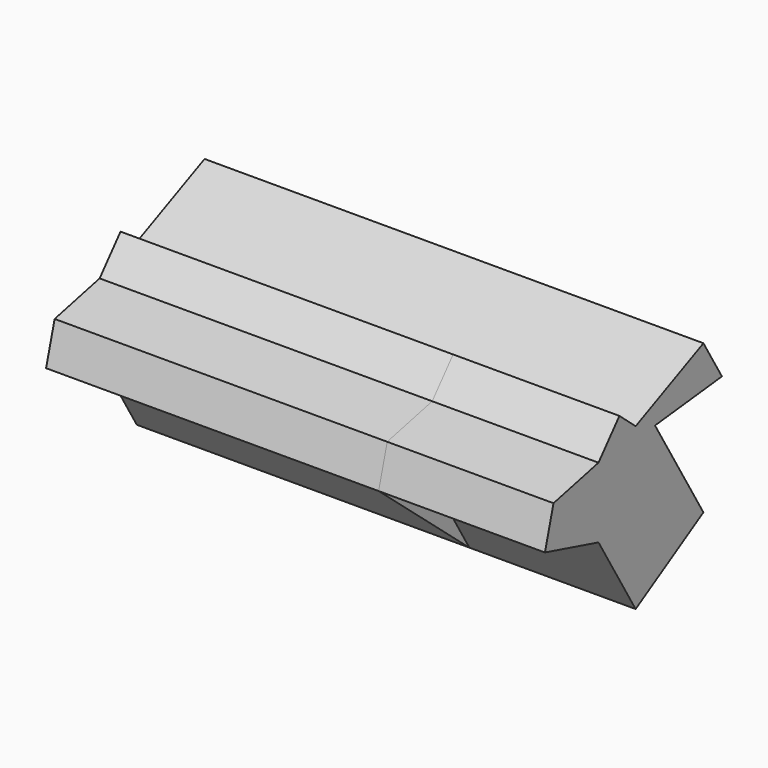
from build123d import *

# Parameters (mm, degrees)
F1_DEPTH = 25.4
F2_DEPTH = 25.4
F3_DEPTH = 25.4


with BuildPart() as f1:
    # F0 (on Right) → F1 (new body)
    with BuildSketch(Plane.YZ):
        Polygon((9.239734, 21.423999), (0, 36.8574), (12.772722, 38.266705), (9.239734, 44.167958), (-3.698064, 38.266705), (-6.802882, 40.91882), (-10.792507, 36.248185), (-19.385322, 34.290259), (-21.017857, 28.328415), (-10.792507, 25.528402), (-3.698064, 13.678343), align=None)
    extrude(amount=F1_DEPTH)

    # F1_face (on face) → F2 (join)
    with BuildSketch(Plane(origin=(0, -3.616962, 29.337162), x_dir=(0, 1, 0), z_dir=(-1, 0, 0))):
        Polygon((3.616962, -7.520238), (12.856696, 7.913163), (-0.081102, 15.658819), (-7.175545, 3.808761), (-17.400895, 1.008747), (-15.76836, -4.953096), (-7.175545, -6.911023), (-3.18592, -11.581657), (-0.081102, -8.929543), (12.856696, -14.830796), (16.389684, -8.929543), align=None)
    extrude(amount=F2_DEPTH)

    # F2_face (on face) → F3 (join)
    with BuildSketch(Plane(origin=(-25.4, -3.616962, 29.337162), x_dir=(0, 1, 0), z_dir=(-1, 0, 0))):
        Polygon((16.389684, -8.929543), (3.616962, -7.520238), (12.856696, 7.913163), (-0.081102, 15.658819), (-7.175545, 3.808761), (-17.400895, 1.008747), (-15.76836, -4.953096), (-7.175545, -6.911023), (-3.18592, -11.581657), (-0.081102, -8.929543), (12.856696, -14.830796), align=None)
    extrude(amount=F3_DEPTH)


solid = f1.part
